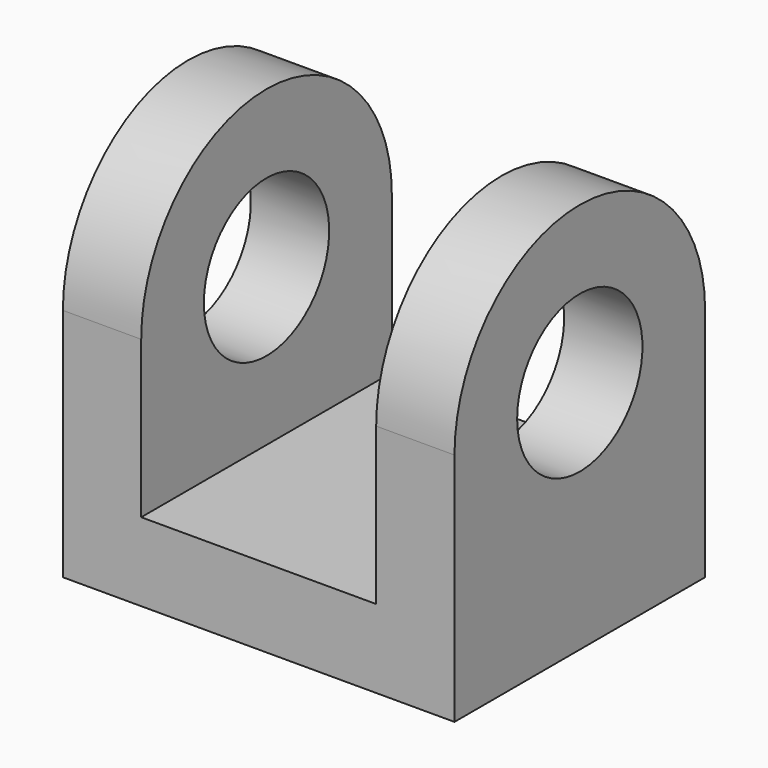
from build123d import *

# Parameters (mm, degrees)
F0_W      = 5
F0_H      = 4
F1_DEPTH  = 1
F2_W      = 3
F2_H      = 4
F3_DEPTH  = 4
F5_DEPTH  = 1
F7_DEPTH  = 1
F8_W      = 3
F8_H      = 4
F9_DEPTH  = 25
F10_R     = 1
F11_DEPTH = 25


with BuildPart() as f1:
    # F0 (on Top) → F1 (new body)
    with BuildSketch(Plane.XY):
        with Locations((34.4079844654, 6.5948922585)):
            Rectangle(F0_W, F0_H)
    extrude(amount=F1_DEPTH)



with BuildPart() as f3:
    # F2 (on face) → F3 (new body)
    with BuildSketch(Plane.XY.offset(1)):
        with Locations((34.4079844654, 6.5948922585)):
            Rectangle(F2_W, F2_H)
    extrude(amount=F3_DEPTH)


with BuildPart() as f1_1:
    add(f1.part)

    add(f3.part)  # F5 merges F3
    # F4 (on face) → F5 (join)
    with BuildSketch(Plane(origin=(32.9079844654, 0, 0), x_dir=(0, -1, 0), z_dir=(-1, 0, 0))):
        with BuildLine():
            ThreePointArc((-4.5948922585, 3), (-6.5948922585, 5), (-8.5948922585, 3))
            Line((-8.5948922585, 3), (-4.5948922585, 3))
        make_face()
        with BuildLine():
            ThreePointArc((-6.5948922585, 1), (-8.0091058209, 1.5857864376), (-8.5948922585, 3))
            Line((-8.5948922585, 3), (-8.5948922585, 1))
            Line((-8.5948922585, 1), (-6.5948922585, 1))
        make_face()
        with BuildLine():
            Line((-4.5948922585, 3), (-8.5948922585, 3))
            ThreePointArc((-8.5948922585, 3), (-8.0091058209, 1.5857864376), (-6.5948922585, 1))
            ThreePointArc((-6.5948922585, 1), (-5.1806786962, 1.5857864376), (-4.5948922585, 3))
        make_face()
        with BuildLine():
            Line((-4.5948922585, 1), (-4.5948922585, 3))
            ThreePointArc((-4.5948922585, 3), (-5.1806786962, 1.5857864376), (-6.5948922585, 1))
            Line((-6.5948922585, 1), (-4.5948922585, 1))
        make_face()
    extrude(amount=F5_DEPTH)

    # F6 (on face) → F7 (join)
    with BuildSketch(Plane.YZ.offset(35.9079844654)):
        with BuildLine():
            ThreePointArc((8.5948922585, 3), (6.5948922585, 5), (4.5948922585, 3))
            Line((4.5948922585, 3), (4.5948922585, 1))
            Line((4.5948922585, 1), (8.5948922585, 1))
            Line((8.5948922585, 1), (8.5948922585, 3))
        make_face()
    extrude(amount=F7_DEPTH)

    # F8 (on face) → F9 (cut)
    with BuildSketch(Plane.XY.offset(1)):
        with Locations((34.4079844654, 6.5948922585)):
            Rectangle(F8_W, F8_H)
    extrude(amount=F9_DEPTH, mode=Mode.SUBTRACT)

    # F10 (on face) → F11 (cut)
    with BuildSketch(Plane(origin=(31.9079844654, 0, 0), x_dir=(0, -1, 0), z_dir=(-1, 0, 0))):
        with Locations((-6.5948922585, 3)):
            Circle(F10_R)
    extrude(amount=-F11_DEPTH, mode=Mode.SUBTRACT)


solid = f1_1.part
